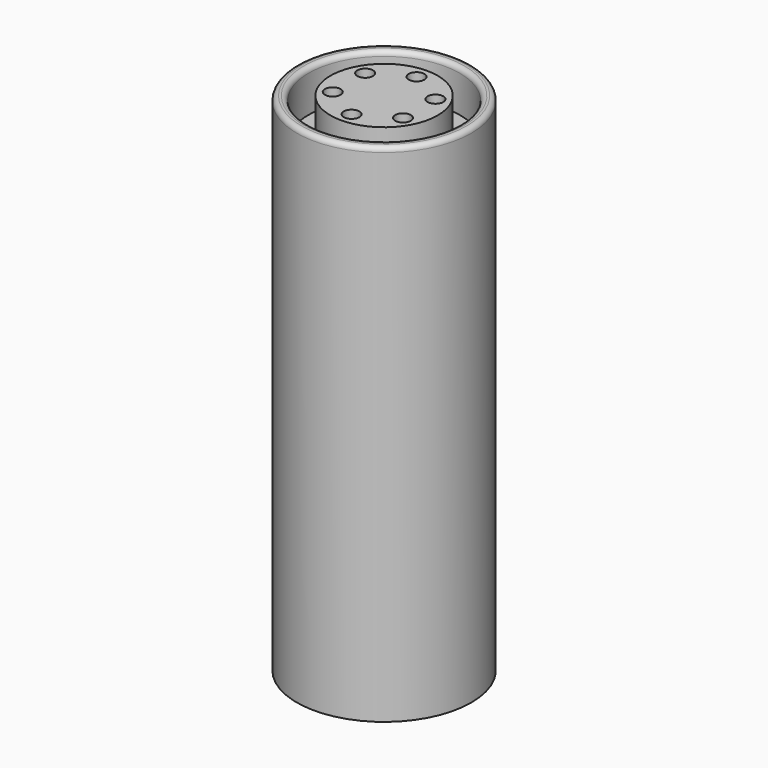
from build123d import *

# Parameters (mm, degrees)
F0_R     = 14.5049581744
F1_DEPTH = 84.074
F2_R     = 1.301702719
F3_DEPTH = 84.075
F4_W     = 3.6260485649
F4_H     = 8.158609271
F6_R     = 0.7971733183


with BuildPart() as f1:
    # F0 (on Top) → F1 (new body)
    with BuildSketch(Plane.XY):
        Circle(F0_R)
    extrude(amount=F1_DEPTH)

    # F2 (on face) → F3 (cut, through all)
    with BuildSketch(Plane.XY.offset(84.074)):
        with Locations((0, 6.7397234961)):
            Circle(F2_R)
        with Locations((5.8367717621, 3.3698617481)):
            Circle(F2_R)
        with Locations((5.8367717621, -3.3698617481)):
            Circle(F2_R)
        with Locations((0, -6.7397234961)):
            Circle(F2_R)
        with Locations((-5.8367717621, -3.3698617481)):
            Circle(F2_R)
        with Locations((-5.8367717621, 3.3698617481)):
            Circle(F2_R)
    extrude(amount=-F3_DEPTH, mode=Mode.SUBTRACT)

    # F4 (on Front) → F5 (revolve, cut)
    with BuildSketch(Plane.XZ):
        with Locations((10.7324868441, 81.2547430396)):
            Rectangle(F4_W, F4_H)
    revolve(axis=Axis((0, 0, 0), (0, 0, -1)), mode=Mode.SUBTRACT)

    # F6
    f6_edges = [f1.edges().sort_by_distance(p)[0] for p in [
        (-14.504958, 0, 84.074),
        (-12.545511, 0, 84.074),
    ]]
    fillet(f6_edges, radius=F6_R)


solid = f1.part
